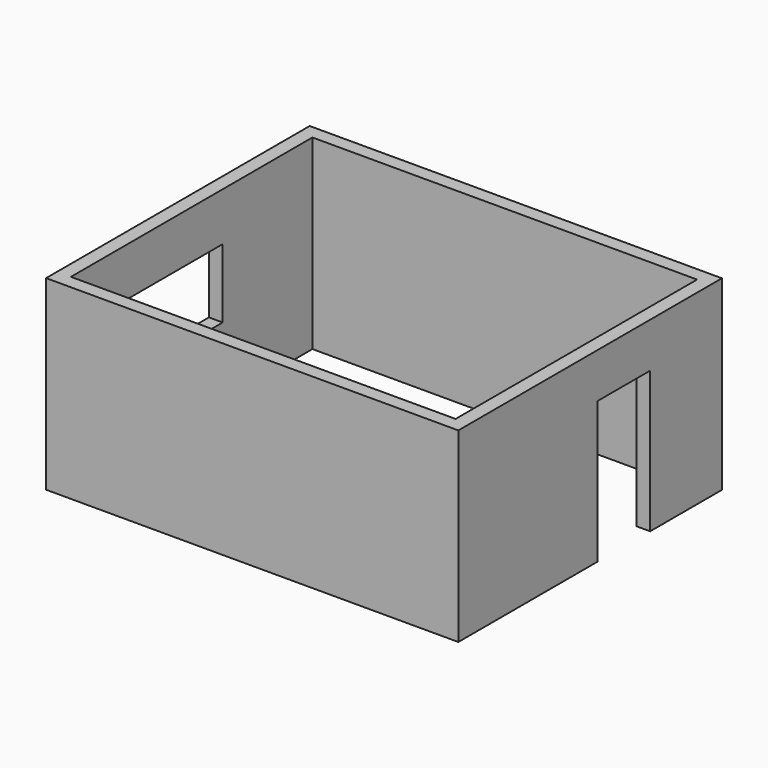
from build123d import *

# Parameters (mm, degrees)
F0_W     = 6070.6
F0_H     = 4851.4
F0_W_2   = 5664.2
F0_H_2   = 4445
F1_DEPTH = 2438.4
F2_W     = 1828.8
F2_H     = 1016
F3_DEPTH = 254
F4_W     = 965.2
F4_H     = 2082.8
F5_DEPTH = 254
F6_DEPTH = 304.8


with BuildPart() as f1:
    # F0 (on Top) → F1 (new body)
    with BuildSketch(Plane.XY):
        Rectangle(F0_W, F0_H)
        Rectangle(F0_W_2, F0_H_2, mode=Mode.SUBTRACT)
    extrude(amount=F1_DEPTH)

    # F2 (on face) → F3 (cut)
    with BuildSketch(Plane(origin=(-3035.3, 0, 0), x_dir=(0, -1, 0), z_dir=(-1, 0, 0))):
        with Locations((342.9, 1524)):
            Rectangle(F2_W, F2_H)
    extrude(amount=-F3_DEPTH, mode=Mode.SUBTRACT)

    # F4 (on face) → F5 (cut)
    with BuildSketch(Plane.YZ.offset(3035.3)):
        with Locations((622.3, 1041.4)):
            Rectangle(F4_W, F4_H)
    extrude(amount=-F5_DEPTH, mode=Mode.SUBTRACT)

    # F6 (add): a face of the model
    f6_faces = [f1.faces().sort_by_distance(p)[0] for p in [
        (2957.5901123923, 0, 2438.4),
    ]]
    extrude(f6_faces, amount=F6_DEPTH)


solid = f1.part
